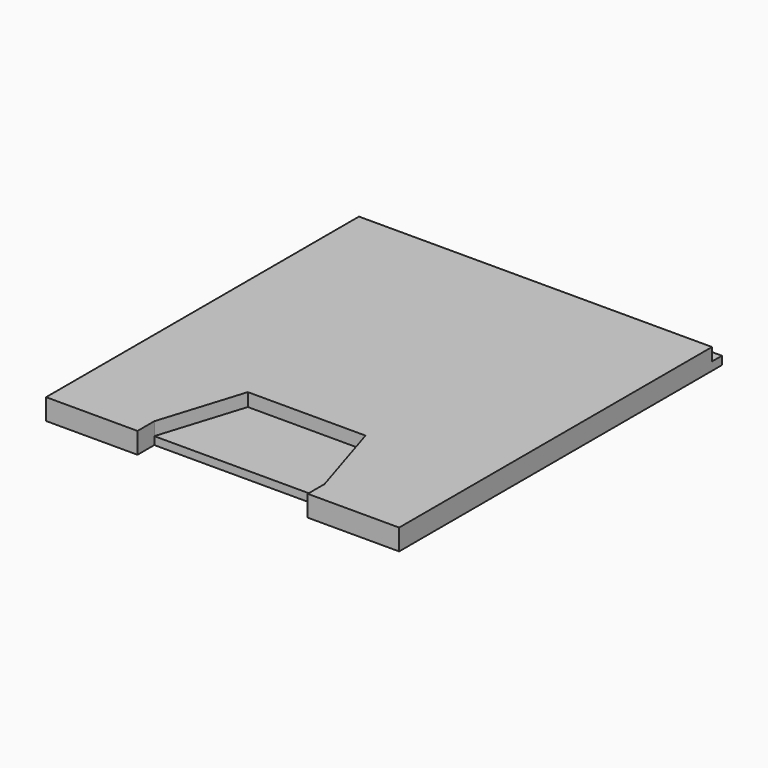
from build123d import *

# Parameters (mm, degrees)
F0_W     = 42.672
F0_H     = 48.768
F1_DEPTH = 2.54
F2_W     = 42.672
F2_H     = 1.54
F3_DEPTH = 1.4986
F4_W     = 20.574
F4_H     = 2.54
F5_DEPTH = 5.08
F7_DEPTH = 1.5875


with BuildPart() as f1:
    # F0 (on Top) → F1 (new body)
    with BuildSketch(Plane.XY):
        Rectangle(F0_W, F0_H)
    extrude(amount=F1_DEPTH)

    # F2 (on face) → F3 (cut)
    with BuildSketch(Plane(origin=(0, 24.384, 0), x_dir=(-1, 0, 0), z_dir=(0, 1, 0))):
        with Locations((0, 1.77)):
            Rectangle(F2_W, F2_H)
    extrude(amount=-F3_DEPTH, mode=Mode.SUBTRACT)

    # F4 (on face) → F5 (cut)
    with BuildSketch(Plane.XY.offset(2.54)):
        with Locations((0, -23.114)):
            Rectangle(F4_W, F4_H)
    extrude(amount=-F5_DEPTH, mode=Mode.SUBTRACT)

    # F6 (on face) → F7 (cut)
    with BuildSketch(Plane.XY.offset(2.54)):
        Polygon((-7.112, -11.684), (-10.287, -21.844), (10.287, -21.844), (7.112, -11.684), align=None)
    extrude(amount=-F7_DEPTH, mode=Mode.SUBTRACT)


solid = f1.part
